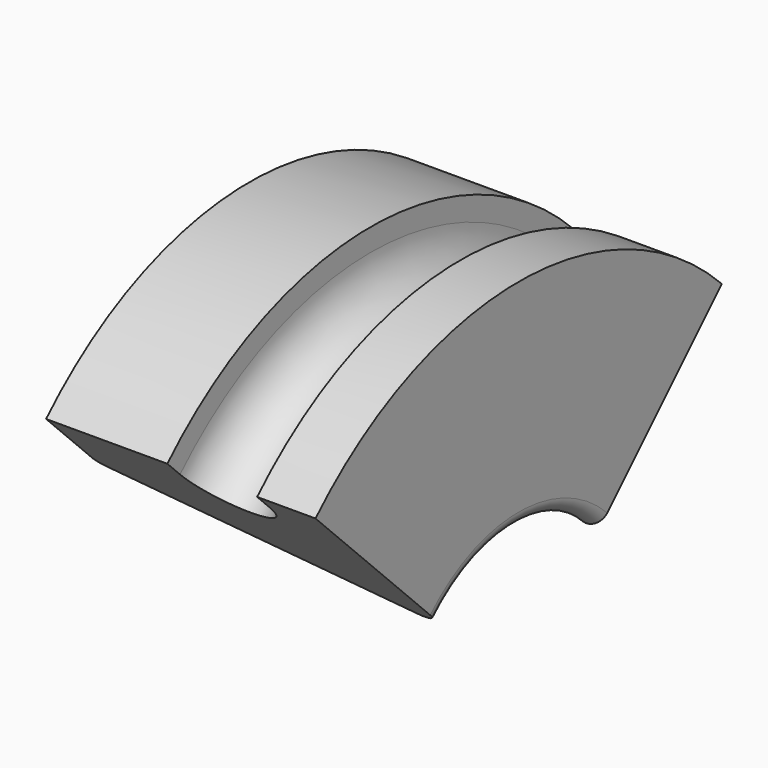
from build123d import *

# Parameters (mm, degrees)
F1_ANGLE_BACK = 45
F1_ANGLE      = 90
F2_R          = 0.3


with BuildPart() as f1:
    # F0 (on Front) → F1 (revolve)
    with BuildSketch(Plane.XZ, mode=Mode.PRIVATE) as f1_sk:
        with BuildLine():
            Line((-4, 6), (0, 4))
            Line((0, 4), (2, 3))
            Line((2, 3), (2, 8))
            Line((2, 8), (0.7, 8))
            Line((0.7, 8), (0.7, 7.5))
            ThreePointArc((0.7, 7.5), (-0.3, 6.5), (-1.3, 7.5))
            Line((-1.3, 7.5), (-1.3, 8))
            Line((-1.3, 8), (-4, 8))
            Line((-4, 8), (-4, 6))
        make_face()
    revolve(f1_sk.sketch.rotate(Axis((1.3218939436, 0, 0), (1, 0, 0)), -F1_ANGLE_BACK), axis=Axis((1.3218939436, 0, 0), (1, 0, 0)), revolution_arc=F1_ANGLE)

    # F2
    f2_edges = [f1.edges().sort_by_distance(p)[0] for p in [
        (2, 0, 3),
        (-4, 0, 6),
    ]]
    fillet(f2_edges, radius=F2_R)


solid = f1.part
